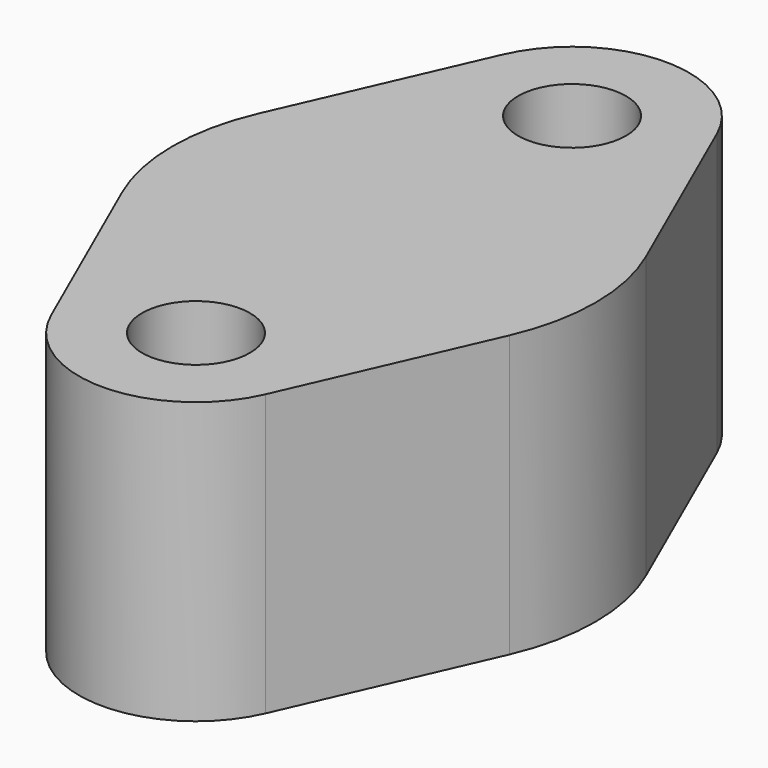
from build123d import *

# Parameters (mm, degrees)
F0_R     = 1.8288
F1_DEPTH = 9.525
F3_R     = 4
F4_DEPTH = 7.9375


with BuildPart() as f1:
    # F0 (on Top) → F1 (new body)
    with BuildSketch(Plane.XY):
        with BuildLine():
            Line((6.568602, 2.886882), (3.63333, 9.565588))
            ThreePointArc((3.63333, 9.565588), (0, 11.9375), (-3.63333, 9.565588))
            Line((-3.63333, 9.565588), (-6.568602, 2.886882))
            ThreePointArc((-6.568602, 2.886882), (-7.175, 0), (-6.568602, -2.886882))
            Line((-6.568602, -2.886882), (-3.63333, -9.565588))
            ThreePointArc((-3.63333, -9.565588), (0, -11.9375), (3.63333, -9.565588))
            Line((3.63333, -9.565588), (6.568602, -2.886882))
            ThreePointArc((6.568602, -2.886882), (7.175, 0), (6.568602, 2.886882))
        make_face()
        with Locations((0, -7.96875)):
            Circle(F0_R, mode=Mode.SUBTRACT)
        with Locations((0, 7.96875)):
            Circle(F0_R, mode=Mode.SUBTRACT)
    extrude(amount=F1_DEPTH)

    # F3 (on face) → F4 (cut, through all)
    with BuildSketch(Plane(origin=(0, 0, 0), x_dir=(1, 0, 0), z_dir=(0, 0, -1))):
        Circle(F3_R)
    extrude(amount=-F4_DEPTH, mode=Mode.SUBTRACT)


solid = f1.part
